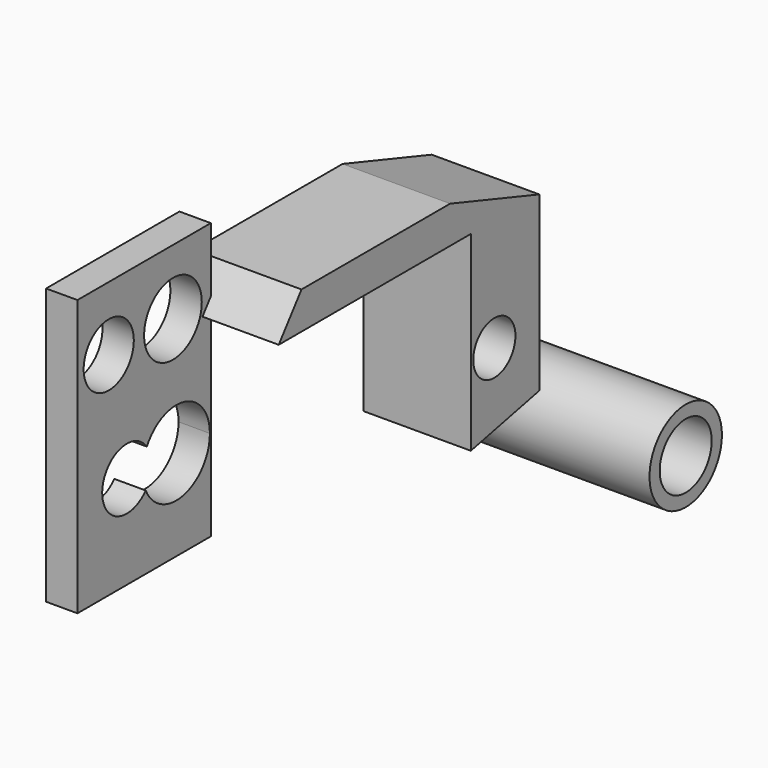
from build123d import *

# Parameters (mm, degrees)
F0_R     = 10.443962
F1_DEPTH = 42.672
F2_W     = 66.101492
F2_H     = 109.3782
F2_R     = 12.433951
F2_R_2   = 14.293773
F3_DEPTH = 12.446
F4_R     = 17.949328
F4_R_2   = 12.886823
F5_DEPTH = 83.566


with BuildPart() as f1:
    # F0 (on Right) → F1 (new body)
    with BuildSketch(Plane.YZ):
        Polygon((0, -62.193878), (33.922866, -54.998115), (33.922866, 13.532934), (-10.279658, 28.267112), (-83.950534, 28.267112), (-95.258161, 13.532934), (-40.433321, 13.532934), (0, 13.532934), (0, -10.795589), align=None)
        with Locations((11.650279, -31.012248)):
            Circle(F0_R, mode=Mode.SUBTRACT)
    extrude(amount=F1_DEPTH)

    # F2 (on Right) → F3 (join)
    with BuildSketch(Plane.YZ):
        with Locations((-124.186635, -10.168495)):
            Rectangle(F2_W, F2_H)
        with BuildLine():
            ThreePointArc((-123.431967, -35.69477), (-144.967962, -27.327392), (-122.857463, -20.623816))
            ThreePointArc((-122.857463, -20.623816), (-104.088314, -12.575896), (-91.589596, -28.72619))
            ThreePointArc((-91.589596, -28.72619), (-104.706553, -45.024179), (-123.431967, -35.69477))
        make_face(mode=Mode.SUBTRACT)
        with Locations((-141.732097, 19.099573)):
            Circle(F2_R, mode=Mode.SUBTRACT)
        with Locations((-109.905452, 18.734435)):
            Circle(F2_R_2, mode=Mode.SUBTRACT)
    extrude(amount=F3_DEPTH)


with BuildPart() as f5:
    # F4 (on Right) → F5 (new body)
    with BuildSketch(Plane.YZ):
        with Locations((55.399694, -73.167913)):
            Circle(F4_R)
        with Locations((55.399694, -73.167913)):
            Circle(F4_R_2, mode=Mode.SUBTRACT)
    extrude(amount=F5_DEPTH)


solid = Compound([f1.part, f5.part])
